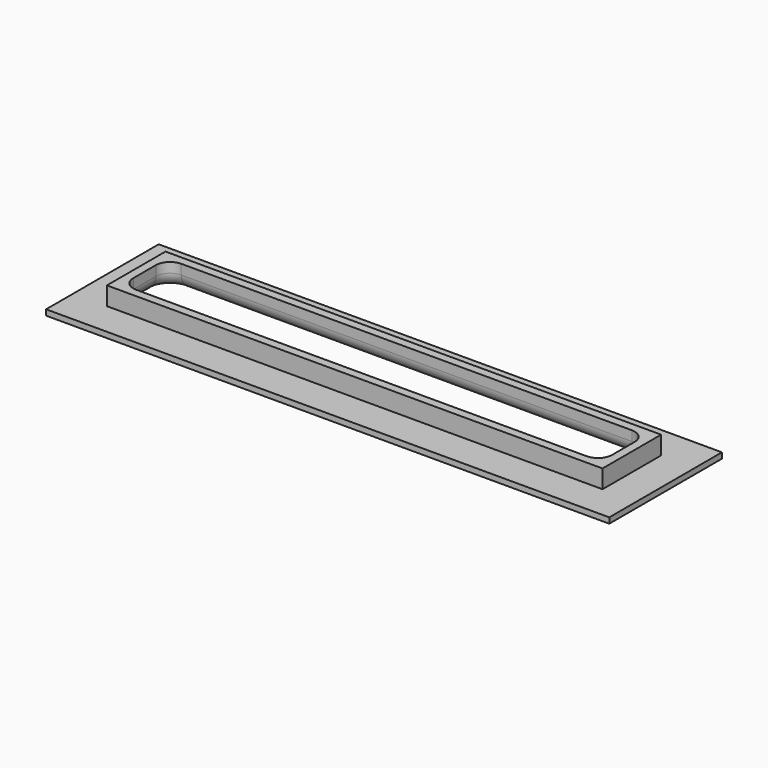
from build123d import *

# Parameters (mm, degrees)
F0_W     = 176
F0_H     = 26
F0_W_2   = 170
F0_H_2   = 20
F0_W_3   = 200
F0_H_3   = 50
F1_DEPTH = 2
F2_DEPTH = 8.5
F3_R     = 5
F4_R     = 5


with BuildPart() as f1:
    # F0 (on Top) → F1 (new body)
    with BuildSketch(Plane.XY):
        Rectangle(F0_W, F0_H)
        Rectangle(F0_W_2, F0_H_2, mode=Mode.SUBTRACT)
        Rectangle(F0_W_3, F0_H_3)
        Rectangle(F0_W, F0_H, mode=Mode.SUBTRACT)
    extrude(amount=F1_DEPTH)

    # F0 (on Top) → F2 (join)
    with BuildSketch(Plane.XY):
        Rectangle(F0_W, F0_H)
        Rectangle(F0_W_2, F0_H_2, mode=Mode.SUBTRACT)
    extrude(amount=F2_DEPTH)

    # F3
    f3_edges = [f1.edges().sort_by_distance(p)[0] for p in [
        (-85, -10, 4.25),
        (-85, 10, 4.25),
        (85, -10, 4.25),
        (85, 10, 4.25),
    ]]
    fillet(f3_edges, radius=F3_R)

    # F4
    f4_edges = [f1.edges().sort_by_distance(p)[0] for p in [
        (0, -10, 0),
    ]]
    fillet(f4_edges, radius=F4_R)


solid = f1.part
